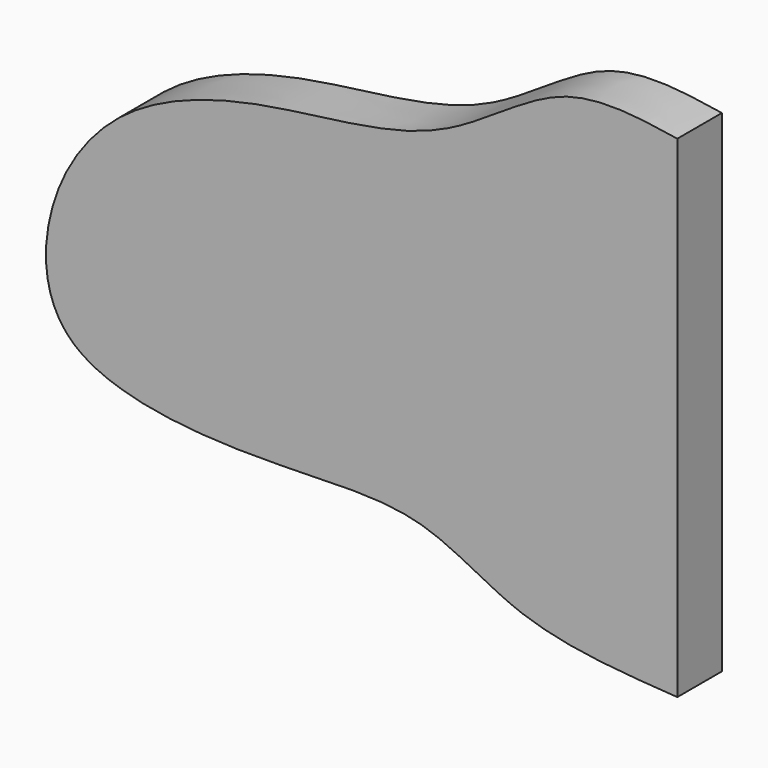
from build123d import *

# Parameters (mm, degrees)
F1_DEPTH = 4.318


with BuildPart() as f1:
    # F0 (on Front) → F1 (new body)
    with BuildSketch(Plane.XZ):
        with BuildLine():
            Line((0, -38.1), (0, 0))
            add(Edge.make_bspline(
                [(0, 0), (-2.9991030835, 0.4691530443), (-9.3845698923, 1.4680386606), (-18.2907276532, -7.0591963575), (-32.102664496, -7.4952431113), (-43.8848499781, -11.4627157227), (-49.5941374163, -20.6219879268), (-48.6266620033, -31.444753917), (-31.6974456595, -32.7676277145), (-19.9043812336, -31.4645409102), (-12.1714786736, -37.3209647959), (-4.2653138431, -37.8231573643), (0, -38.1)],
                knots=[0, 0, 0, 0, 0.0891286337, 0.1897676929, 0.3006986319, 0.4047668548, 0.499839696, 0.5859595732, 0.7024443653, 0.806691552, 0.895702142, 1, 1, 1, 1], degree=3))
        make_face()
    extrude(amount=F1_DEPTH)


solid = f1.part
